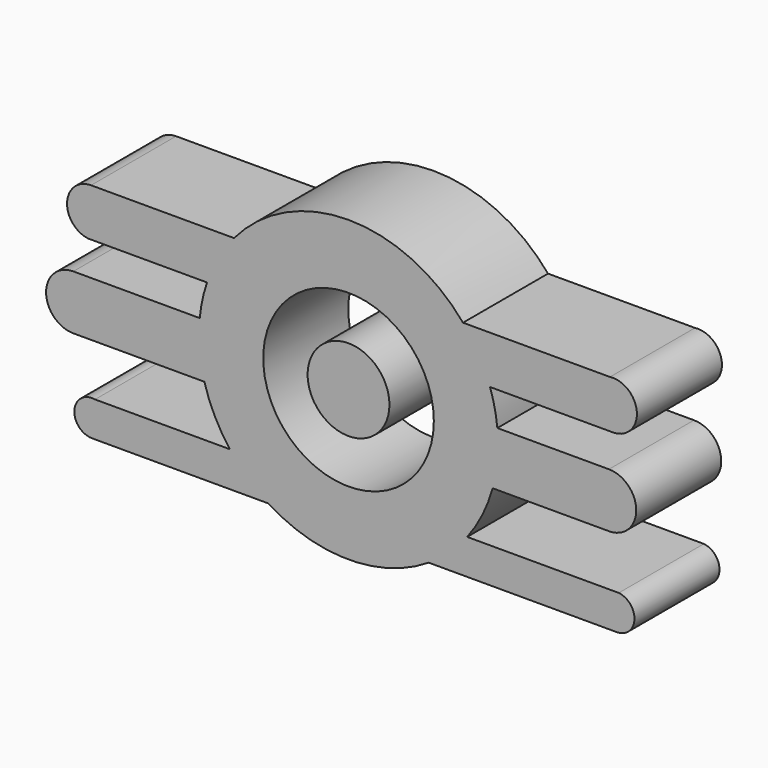
from build123d import *

# Parameters (mm, degrees)
F0_R     = 20.067034
F0_R_2   = 9.623289
F1_DEPTH = 25


with BuildPart() as f1:
    # F0 (on Front) → F1 (new body)
    with BuildSketch(Plane.XZ):
        with BuildLine():
            ThreePointArc((33.902498, -9.386339), (34.857571, -4.736294), (35.177873, 0))
            ThreePointArc((35.177873, 0), (35.135712, 1.721771), (35.00933, 3.439415))
            ThreePointArc((35.00933, 3.439415), (34.378067, 7.458638), (33.28696, 11.378093))
            ThreePointArc((33.28696, 11.378093), (30.630425, 17.299128), (26.931429, 22.631413))
            ThreePointArc((26.931429, 22.631413), (0, 35.177873), (-26.931429, 22.631413))
            ThreePointArc((-26.931429, 22.631413), (-30.630425, 17.299128), (-33.28696, 11.378093))
            ThreePointArc((-33.28696, 11.378093), (-34.378067, 7.458638), (-35.00933, 3.439415))
            ThreePointArc((-35.00933, 3.439415), (-35.04761, -3.024524), (-33.902498, -9.386339))
            ThreePointArc((-33.902498, -9.386339), (-31.485155, -15.689734), (-27.908218, -21.415278))
            ThreePointArc((-27.908218, -21.415278), (-23.748844, -25.951399), (-18.862568, -29.693203))
            ThreePointArc((-18.862568, -29.693203), (0, -35.177873), (18.862568, -29.693203))
            ThreePointArc((18.862568, -29.693203), (23.748844, -25.951399), (27.908218, -21.415278))
            ThreePointArc((27.908218, -21.415278), (31.485155, -15.689734), (33.902498, -9.386339))
        make_face()
        Circle(F0_R, mode=Mode.SUBTRACT)
        with BuildLine():
            ThreePointArc((35.00933, 3.439415), (35.135712, 1.721771), (35.177873, 0))
            ThreePointArc((35.177873, 0), (34.857571, -4.736294), (33.902498, -9.386339))
            Line((33.902498, -9.386339), (61.494485, -9.386339))
            ThreePointArc((61.494485, -9.386339), (67.676795, -2.859728), (61.262872, 3.439415))
            Line((61.262872, 3.439415), (35.00933, 3.439415))
        make_face()
        with BuildLine():
            ThreePointArc((26.931429, 22.631413), (30.630425, 17.299128), (33.28696, 11.378093))
            Line((33.28696, 11.378093), (62.189341, 11.378093))
            ThreePointArc((62.189341, 11.378093), (67.826717, 17.374296), (61.494485, 22.631413))
            Line((61.494485, 22.631413), (26.931429, 22.631413))
        make_face()
        with BuildLine():
            Line((63.579045, -21.415278), (27.908218, -21.415278))
            ThreePointArc((27.908218, -21.415278), (23.748844, -25.951399), (18.862568, -29.693203))
            Line((18.862568, -29.693203), (63.115813, -29.693203))
            ThreePointArc((63.115813, -29.693203), (67.261251, -25.773257), (63.579045, -21.415278))
        make_face()
        with BuildLine():
            ThreePointArc((-33.28696, 11.378093), (-30.630425, 17.299128), (-26.931429, 22.631413))
            Line((-26.931429, 22.631413), (-60.568016, 22.631413))
            ThreePointArc((-60.568016, 22.631413), (-66.205392, 17.33139), (-61.262872, 11.378093))
            Line((-61.262872, 11.378093), (-33.28696, 11.378093))
        make_face()
        with BuildLine():
            Line((-60.336404, -29.693203), (-18.862568, -29.693203))
            ThreePointArc((-18.862568, -29.693203), (-23.748844, -25.951399), (-27.908218, -21.415278))
            Line((-27.908218, -21.415278), (-59.641551, -21.415278))
            ThreePointArc((-59.641551, -21.415278), (-64.489923, -25.176428), (-60.336404, -29.693203))
        make_face()
        with BuildLine():
            ThreePointArc((-33.902498, -9.386339), (-35.04761, -3.024524), (-35.00933, 3.439415))
            Line((-35.00933, 3.439415), (-64.737134, 3.439415))
            ThreePointArc((-64.737134, 3.439415), (-71.150011, -2.973462), (-64.737134, -9.386339))
            Line((-64.737134, -9.386339), (-33.902498, -9.386339))
        make_face()
        with BuildLine():
            ThreePointArc((33.902498, -9.386339), (34.857571, -4.736294), (35.177873, 0))
            ThreePointArc((35.177873, 0), (35.135712, 1.721771), (35.00933, 3.439415))
            ThreePointArc((35.00933, 3.439415), (34.378067, 7.458638), (33.28696, 11.378093))
            ThreePointArc((33.28696, 11.378093), (30.630425, 17.299128), (26.931429, 22.631413))
            ThreePointArc((26.931429, 22.631413), (0, 35.177873), (-26.931429, 22.631413))
            ThreePointArc((-26.931429, 22.631413), (-30.630425, 17.299128), (-33.28696, 11.378093))
            ThreePointArc((-33.28696, 11.378093), (-34.378067, 7.458638), (-35.00933, 3.439415))
            ThreePointArc((-35.00933, 3.439415), (-35.04761, -3.024524), (-33.902498, -9.386339))
            ThreePointArc((-33.902498, -9.386339), (-31.485155, -15.689734), (-27.908218, -21.415278))
            ThreePointArc((-27.908218, -21.415278), (-23.748844, -25.951399), (-18.862568, -29.693203))
            ThreePointArc((-18.862568, -29.693203), (0, -35.177873), (18.862568, -29.693203))
            ThreePointArc((18.862568, -29.693203), (23.748844, -25.951399), (27.908218, -21.415278))
            ThreePointArc((27.908218, -21.415278), (31.485155, -15.689734), (33.902498, -9.386339))
        make_face()
        Circle(F0_R, mode=Mode.SUBTRACT)
        Circle(F0_R_2)
    extrude(amount=F1_DEPTH)


solid = f1.part
